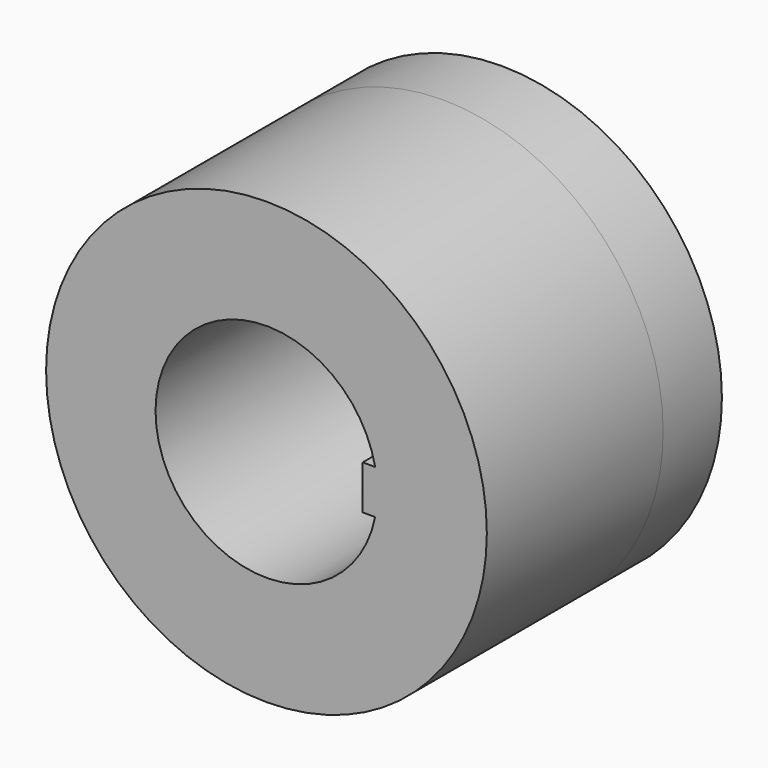
from build123d import *

# Parameters (mm, degrees)
F0_R     = 15
F0_R_2   = 7.55
F1_DEPTH = 15
F2_R     = 15
F2_R_2   = 2.5
F3_DEPTH = 5
F5_DEPTH = 15


with BuildPart() as f1:
    # F0 (on Front) → F1 (new body)
    with BuildSketch(Plane.XZ):
        Circle(F0_R)
        Circle(F0_R_2, mode=Mode.SUBTRACT)
    extrude(amount=F1_DEPTH)

    # F2 (on face) → F3 (join)
    with BuildSketch(Plane(origin=(0, 0, 0), x_dir=(-1, 0, 0), z_dir=(0, 1, 0))):
        Circle(F2_R)
        Circle(F2_R_2, mode=Mode.SUBTRACT)
    extrude(amount=F3_DEPTH)

    # F4 (on face) → F5 (join)
    with BuildSketch(Plane.XZ.offset(15)):
        with BuildLine():
            ThreePointArc((7.399493, -1.5), (7.55, 0), (7.399493, 1.5))
            Line((7.399493, 1.5), (6.55, 1.5))
            Line((6.55, 1.5), (6.55, -1.5))
            Line((6.55, -1.5), (7.399493, -1.5))
        make_face()
    extrude(amount=-F5_DEPTH)


solid = f1.part
